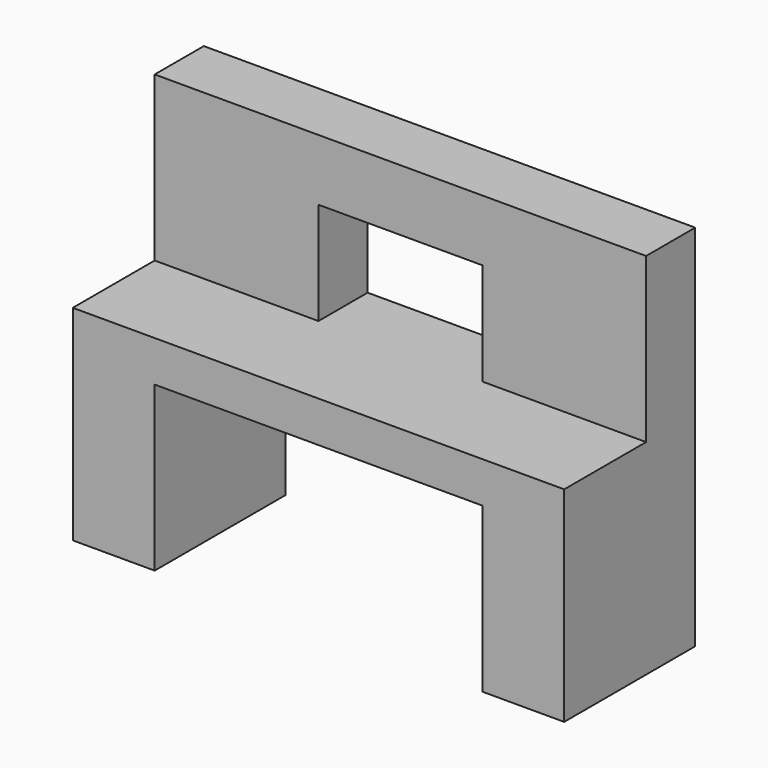
from build123d import *

# Parameters (mm, degrees)
F0_W     = 304.8
F0_H     = 101.6
F1_DEPTH = 127
F3_DEPTH = 101.601
F4_W     = 50.8
F4_H     = 38.1
F5_DEPTH = 101.6
F6_W     = 38.1
F6_H     = 38.1
F7_DEPTH = 101.6


with BuildPart() as f1:
    # F0 (on Top) → F1 (new body)
    with BuildSketch(Plane.XY):
        with Locations((-97.066794, 1.532109)):
            Rectangle(F0_W, F0_H)
    extrude(amount=F1_DEPTH)

    # F2 (on face) → F3 (cut, through all)
    with BuildSketch(Plane.XZ.offset(49.267891)):
        Polygon((-198.666794, 63.5), (-198.666794, 0), (4.533206, 0), (4.533206, 63.5), (4.533206, 101.6), (-198.666794, 101.6), align=None)
    extrude(amount=-F3_DEPTH, mode=Mode.SUBTRACT)

    # F4 (on face) → F5 (join)
    with BuildSketch(Plane.XY.offset(127)):
        with Locations((-224.066794, 33.282109)):
            Rectangle(F4_W, F4_H)
        with Locations((-173.266794, 33.282109)):
            Rectangle(F4_W, F4_H)
        with Locations((-20.866794, 33.282109)):
            Rectangle(F4_W, F4_H)
        with Locations((29.933206, 33.282109)):
            Rectangle(F4_W, F4_H)
    extrude(amount=F5_DEPTH)

    # F6 (on face) → F7 (join)
    with BuildSketch(Plane.YZ.offset(-147.866794)):
        with Locations((33.282109, 209.55)):
            Rectangle(F6_W, F6_H)
    extrude(amount=F7_DEPTH)


solid = f1.part
